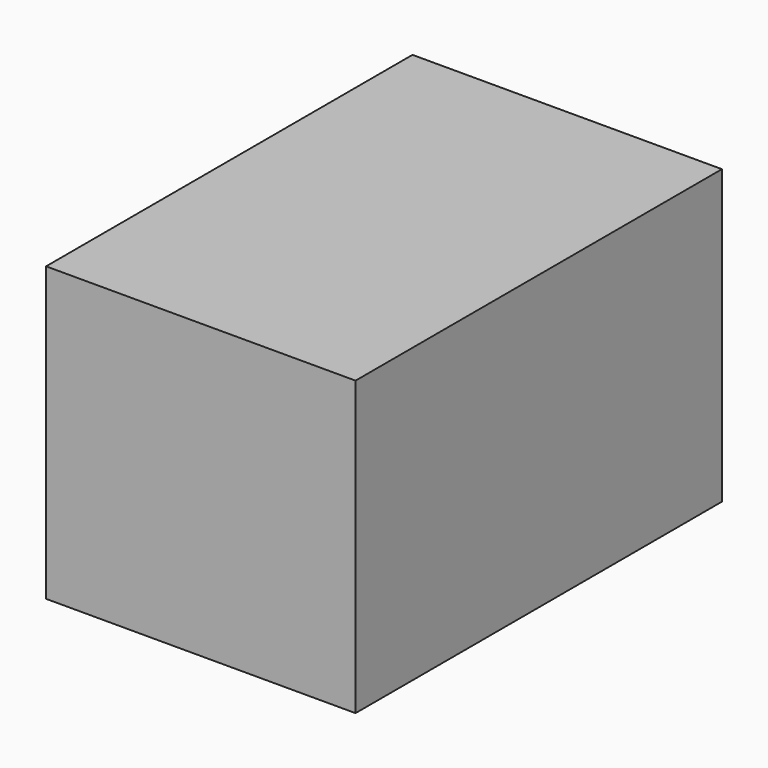
from build123d import *

# Parameters (mm, degrees)
F0_W           = 67.567974329
F0_H           = 63.9199391007
F1_DEPTH       = 50
F2_DEPTH       = 50
F4_D           = 5
F4_DEPTH       = 30
F4_CBORE_D     = 10
F4_CBORE_DEPTH = 10
F4_TIP         = 1.5021515476


with BuildPart() as f1:
    # F0 (on Front) → F1 (new body)
    with BuildSketch(Plane.XZ):
        Rectangle(F0_W, F0_H)
    extrude(amount=F1_DEPTH)

    # F2 (add): a face of the model
    f2_faces = [f1.faces().sort_by_distance(p)[0] for p in [
        (0, 0, 0),
    ]]
    extrude(f2_faces, amount=F2_DEPTH)

    # F4
    with Locations(Plane(origin=(0, 50, 0), x_dir=(-1, 0, 0), z_dir=(0, 1, 0))):
        with Locations((0, 0)):
            CounterBoreHole(F4_D / 2, F4_CBORE_D / 2, F4_CBORE_DEPTH, depth=F4_DEPTH)
            with Locations((0, 0, -(F4_DEPTH + F4_TIP / 2))):  # 118° drill point
                Cone(0, F4_D / 2, F4_TIP, mode=Mode.SUBTRACT)


solid = f1.part
